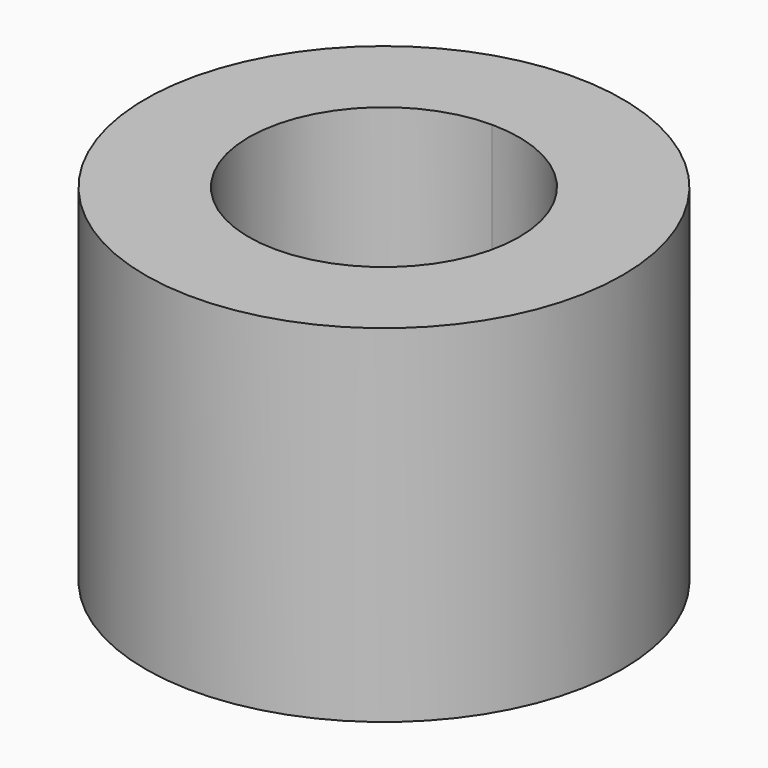
from build123d import *

# Parameters (mm, degrees)
F0_R     = 15
F1_DEPTH = 21.8
F3_DEPTH = 17.5
F4_R     = 1.2
F5_DEPTH = 25.4


with BuildPart() as f1:
    # F0 (on Top) → F1 (new body)
    with BuildSketch(Plane.XY):
        Circle(F0_R)
    extrude(amount=F1_DEPTH)

    # F2 (on face) → F3 (cut)
    with BuildSketch(Plane.XY.offset(21.8)):
        with BuildLine():
            Line((0, -8.5), (0, 8.5))
            ThreePointArc((0, 8.5), (-8.5, 0), (0, -8.5))
        make_face()
        with BuildLine():
            ThreePointArc((8.5, 0), (6.010408, 6.010408), (0, 8.5))
            Line((0, 8.5), (0, -8.5))
            ThreePointArc((0, -8.5), (6.010408, -6.010408), (8.5, 0))
        make_face()
    extrude(amount=-F3_DEPTH, mode=Mode.SUBTRACT)

    # F4 (on face) → F5 (cut)
    with BuildSketch(Plane(origin=(0, 0, 0), x_dir=(1, 0, 0), z_dir=(0, 0, -1))):
        Circle(F4_R)
    extrude(amount=-F5_DEPTH, mode=Mode.SUBTRACT)


solid = f1.part
